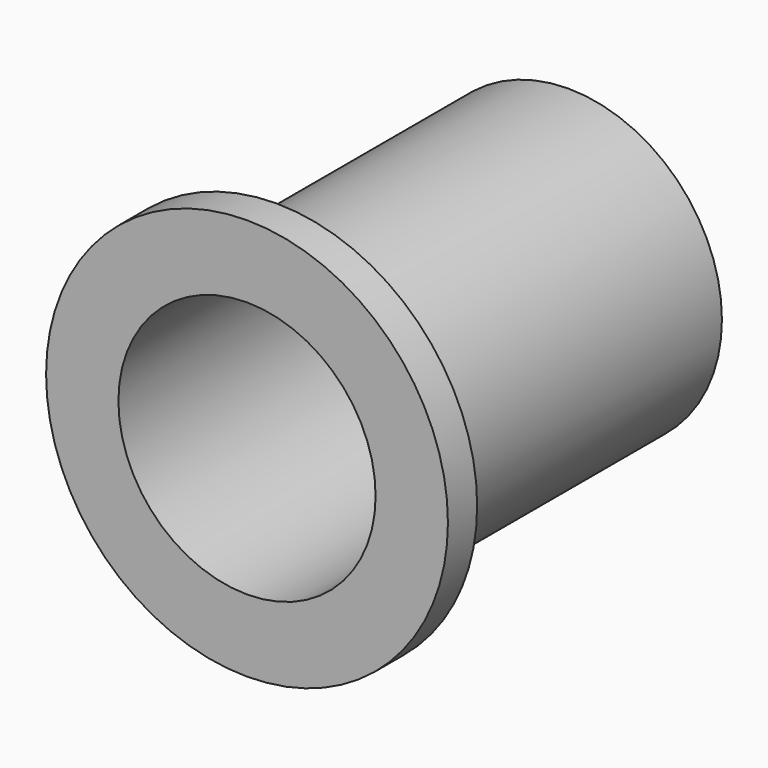
from build123d import *

# Parameters (mm, degrees)
F0_R     = 27.5
F1_DEPTH = 55
F2_R     = 27.5
F2_R_2   = 21
F3_DEPTH = 50
F5_D     = 35.2


with BuildPart() as f1:
    # F0 (on Front) → F1 (new body)
    with BuildSketch(Plane.XZ):
        Circle(F0_R)
    extrude(amount=-F1_DEPTH)

    # F2 (on face) → F3 (cut)
    with BuildSketch(Plane(origin=(0, 55, 0), x_dir=(-1, 0, 0), z_dir=(0, 1, 0))):
        Circle(F2_R)
        Circle(F2_R_2, mode=Mode.SUBTRACT)
    extrude(amount=-F3_DEPTH, mode=Mode.SUBTRACT)

    # F5 (through all)
    with Locations(Plane.XZ):
        with Locations((0, 0)):
            Hole(F5_D / 2)


solid = f1.part
